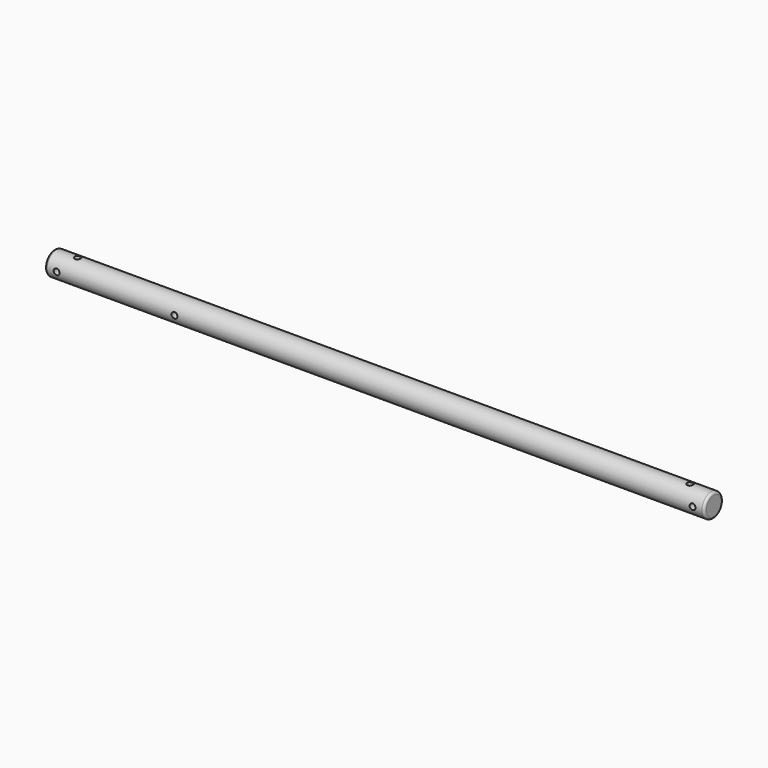
from build123d import *

# Parameters (mm, degrees)
F0_R           = 12.7
F1_DEPTH       = 711.2
F3_DEPTH       = 19.05
F4_R           = 2.54
F7_DEPTH       = 45.72
F7_DEPTH_BACK  = 25.4
F9_DEPTH       = 25.4
F9_DEPTH_BACK  = 25.4
F10_R          = 3.175
F11_DEPTH      = 25.4
F11_DEPTH_BACK = 25.4


with BuildPart() as f1:
    # F0 (on Right) → F1 (new body)
    with BuildSketch(Plane.YZ):
        Circle(F0_R)
    extrude(amount=F1_DEPTH)

    # F2 (on Front) → F3 (join)
    with BuildSketch(Plane.XZ):
        with BuildLine():
            ThreePointArc((9.525, 0), (12.7, -3.175), (15.875, 0))
            ThreePointArc((15.875, 0), (12.7, 3.175), (9.525, 0))
        make_face()
    extrude(amount=F3_DEPTH)

    # F4
    f4_edges = [f1.edges().sort_by_distance(p)[0] for p in [
        (0, -12.7, 0),
        (711.2, -12.7, 0),
    ]]
    fillet(f4_edges, radius=F4_R)

    # F6 (on offset) → F7 (cut, two sides)
    with BuildSketch(Plane.XZ.offset(-6.35)) as f7_sk:
        with BuildLine():
            ThreePointArc((15.875, 0), (12.7, 3.175), (9.525, 0))
            Line((9.525, 0), (12.7, 0))
            Line((12.7, 0), (15.875, 0))
        make_face()
        with BuildLine():
            ThreePointArc((701.675, 0), (698.5, 3.175), (695.325, 0))
            ThreePointArc((695.325, 0), (698.5, -3.175), (701.675, 0))
        make_face()
        with BuildLine():
            Line((12.7, 0), (9.525, 0))
            ThreePointArc((9.525, 0), (12.7, -3.175), (15.875, 0))
            Line((15.875, 0), (12.7, 0))
        make_face()
    extrude(amount=-F7_DEPTH, mode=Mode.SUBTRACT)
    extrude(f7_sk.sketch, amount=F7_DEPTH_BACK, mode=Mode.SUBTRACT)

    # F8 (on Front) → F9 (cut, two sides)
    with BuildSketch(Plane.XZ) as f9_sk:
        with BuildLine():
            ThreePointArc((136.525, 0), (139.7, -3.175), (142.875, 0))
            ThreePointArc((142.875, 0), (139.7, 3.175), (136.525, 0))
        make_face()
    extrude(amount=-F9_DEPTH, mode=Mode.SUBTRACT)
    extrude(f9_sk.sketch, amount=F9_DEPTH_BACK, mode=Mode.SUBTRACT)

    # F10 (on Top) → F11 (cut, two sides)
    with BuildSketch(Plane.XY) as f11_sk:
        with BuildLine():
            ThreePointArc((22.225, 0), (25.4, -3.175), (28.575, 0))
            ThreePointArc((28.575, 0), (25.4, 3.175), (22.225, 0))
        make_face()
        with Locations((685.8, 0)):
            Circle(F10_R)
    extrude(amount=-F11_DEPTH, mode=Mode.SUBTRACT)
    extrude(f11_sk.sketch, amount=F11_DEPTH_BACK, mode=Mode.SUBTRACT)


solid = f1.part
